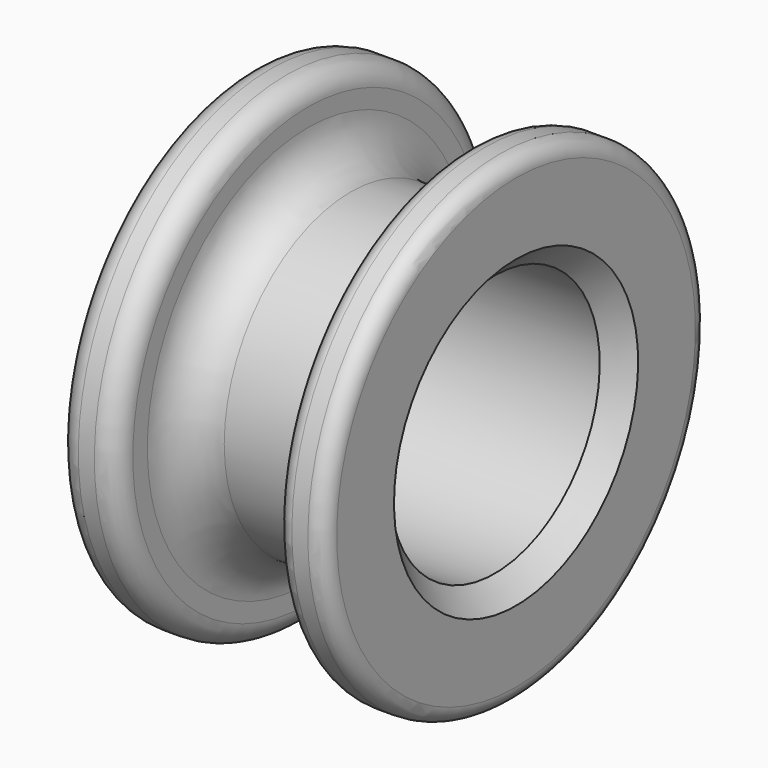
from build123d import *

# Parameters (mm, degrees)
F2_SIZE = 4


with BuildPart() as f1:
    # F0 (on Front) → F1 (revolve)
    with BuildSketch(Plane.XZ):
        with BuildLine():
            ThreePointArc((4, 45), (1.171573, 43.828427), (0, 41))
            Line((0, 41), (0, 24.588905))
            Line((0, 24.588905), (50, 24.588905))
            Line((50, 24.588905), (50, 42))
            ThreePointArc((50, 42), (49.12132, 44.12132), (47, 45))
            Line((47, 45), (44, 45))
            ThreePointArc((44, 45), (41.87868, 44.12132), (41, 42))
            Line((41, 42), (41, 37.588905))
            ThreePointArc((41, 37.588905), (38.656854, 31.932051), (33, 29.588905))
            Line((33, 29.588905), (19, 29.588905))
            ThreePointArc((19, 29.588905), (13.343146, 31.932051), (11, 37.588905))
            Line((11, 37.588905), (11, 41))
            ThreePointArc((11, 41), (9.828427, 43.828427), (7, 45))
            Line((7, 45), (4, 45))
        make_face()
    revolve(axis=Axis((38.676817, 0, 0), (1, 0, 0)))

    # F2
    f2_edges = [f1.edges().sort_by_distance(p)[0] for p in [
        (0, 0, -24.588905),
        (50, 0, -24.588905),
        (25, 0, 24.588905),
    ]]
    chamfer(f2_edges, length=F2_SIZE)


solid = f1.part
